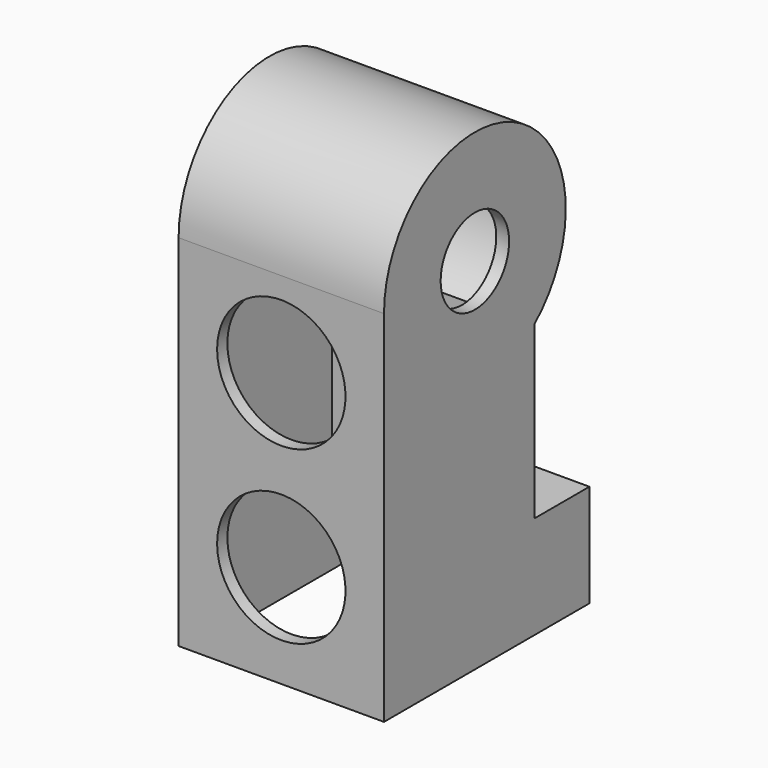
from build123d import *

# Parameters (mm, degrees)
F1_DEPTH = 24
F2_T     = -1.5
F3_R     = 5
F4_DEPTH = 5
F5_R     = 7.5
F6_DEPTH = 5


with BuildPart() as f1:
    # F0 (on Right) → F1 (new body)
    with BuildSketch(Plane.YZ):
        with BuildLine():
            Line((8.7272727273, -30), (8.7272727273, -10))
            ThreePointArc((8.7272727273, -10), (5.4922936244, 12.0830459736), (-13.2727272727, 0))
            Line((-13.2727272727, 0), (-13.2727272727, -42))
            Line((-13.2727272727, -42), (16.7272727273, -42))
            Line((16.7272727273, -42), (16.7272727273, -30))
            Line((16.7272727273, -30), (8.7272727273, -30))
        make_face()
    extrude(amount=F1_DEPTH)

    # F2
    f2_openings = [f1.faces().sort_by_distance(p)[0] for p in [
        (12, 1.727273, -42),
    ]]
    offset(amount=F2_T, openings=f2_openings, kind=Kind.INTERSECTION)

    # F3 (on face) → F4 (cut)
    with BuildSketch(Plane(origin=(0, 0, 0), x_dir=(0, -1, 0), z_dir=(-1, 0, 0))):
        Circle(F3_R)
    extrude(amount=-F4_DEPTH, mode=Mode.SUBTRACT)

    # F5 (on face) → F6 (cut)
    with BuildSketch(Plane.XZ.offset(13.2727272727)):
        with Locations((12, -10)):
            Circle(F5_R)
        with Locations((12, -30)):
            Circle(F5_R)
    extrude(amount=-F6_DEPTH, mode=Mode.SUBTRACT)


with BuildPart() as f7_1:
    # F7: instance of F1
    add(f1.part.mirror(Plane(origin=(0, -0.4359832268, -17.1422397222), x_dir=(0, 1, 0), z_dir=(-1, 0, 0))))


solid = f7_1.part
